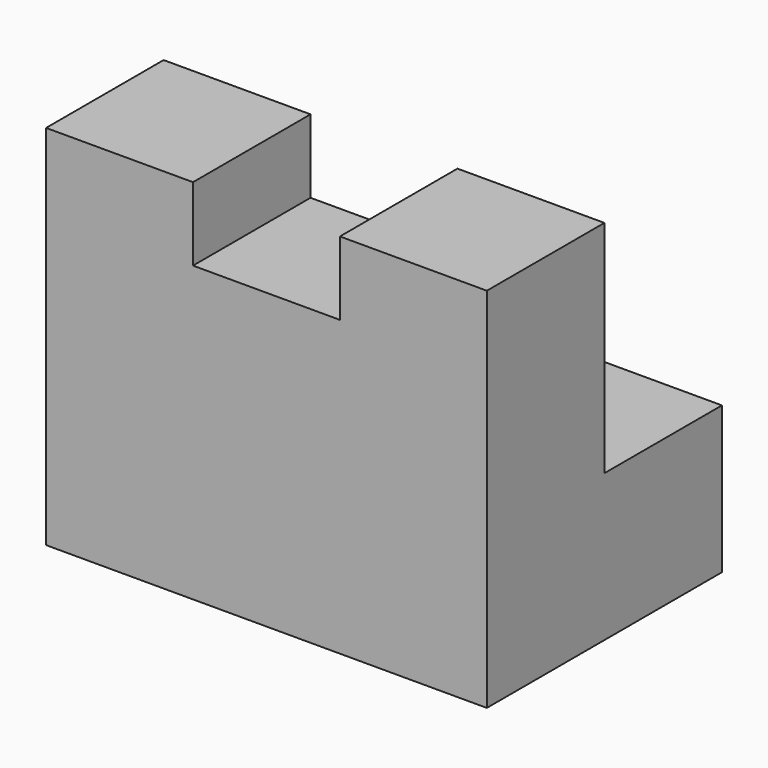
from build123d import *

# Parameters (mm, degrees)
F0_W     = 38.1
F0_H     = 12.7
F1_DEPTH = 12.7
F2_W     = 12.7
F2_H     = 12.7
F3_DEPTH = 38.1


with BuildPart() as f1:
    # F0 (on Front) → F1 (new body)
    with BuildSketch(Plane.XZ):
        with Locations((19.05, 6.35)):
            Rectangle(F0_W, F0_H)
        Polygon((0, 31.75), (0, 12.7), (38.1, 12.7), (38.1, 31.75), (25.4, 31.75), (25.4, 25.4), (12.7, 25.4), (12.7, 31.75), align=None)
    extrude(amount=F1_DEPTH)

    # F2 (on Right) → F3 (join)
    with BuildSketch(Plane.YZ):
        with Locations((6.35, 6.35)):
            Rectangle(F2_W, F2_H)
    extrude(amount=F3_DEPTH)


solid = f1.part
